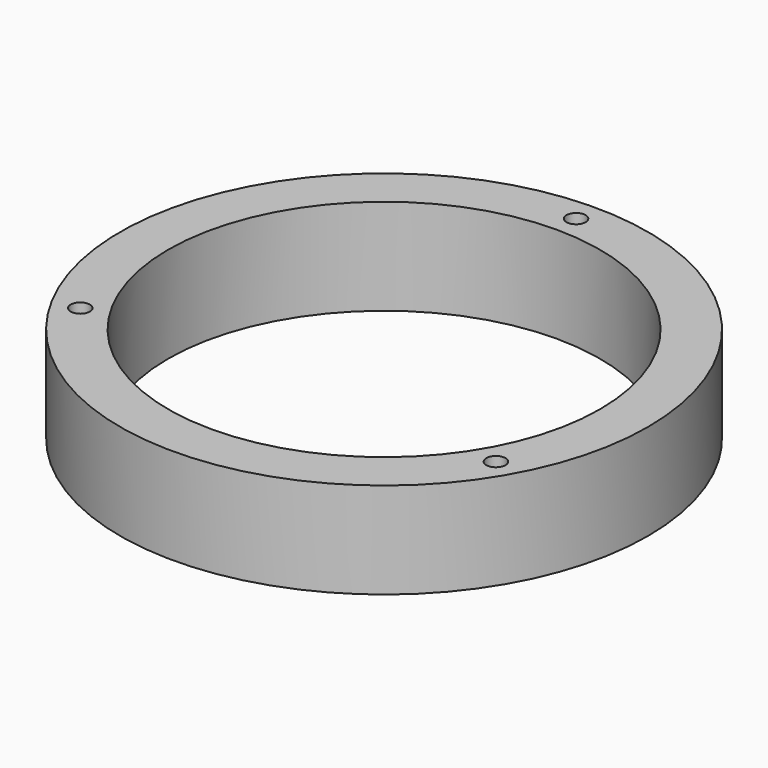
from build123d import *

# Parameters (mm, degrees)
SKETCH_R   = 27.5
SKETCH_R_2 = 22.5
SKETCH_R_3 = 1
PAD_DEPTH  = 10


with BuildPart() as part:
    # Sketch → Pad (new body)
    with BuildSketch(Plane.XY):
        Circle(SKETCH_R)
        Circle(SKETCH_R_2, mode=Mode.SUBTRACT)
        with Locations((0, 25)):
            Circle(SKETCH_R_3, mode=Mode.SUBTRACT)
        with Locations((-21.650635, -12.5)):
            Circle(SKETCH_R_3, mode=Mode.SUBTRACT)
        with Locations((21.650635, -12.5)):
            Circle(SKETCH_R_3, mode=Mode.SUBTRACT)
    extrude(amount=PAD_DEPTH)


solid = part.part
